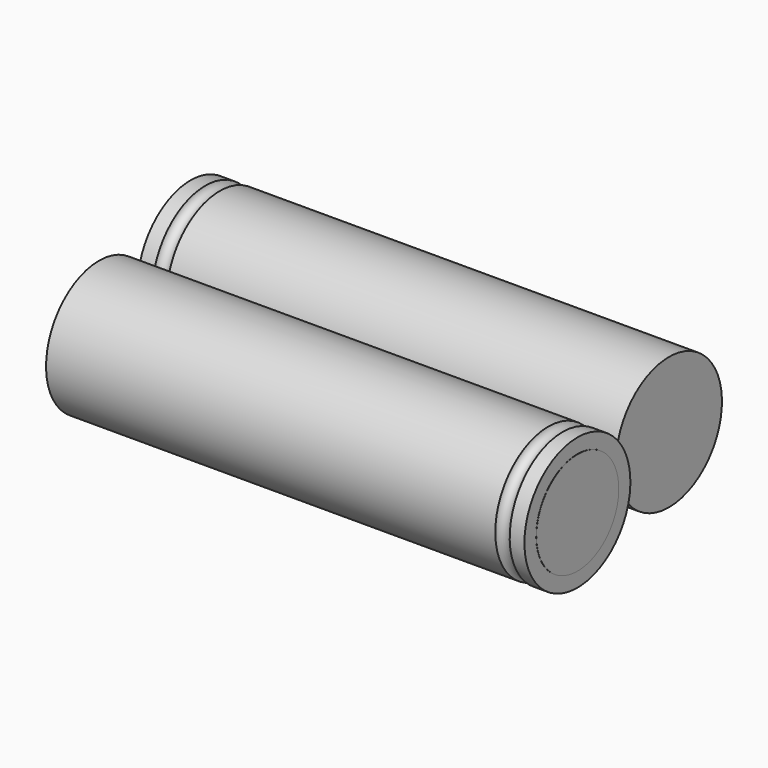
from build123d import *

# Parameters (mm, degrees)
CYLINDER003_R             = 4.5
CYLINDER003_DEPTH         = 2
CYLINDER004_R             = 7
CYLINDER004_DEPTH         = 2
TORUS001_R                = 1
CYLINDER005_R             = 9
CYLINDER005_DEPTH         = 65
FUSION001_PLACEMENT_ANGLE = 90
CYLINDER001_R             = 4.5
CYLINDER001_DEPTH         = 2
CYLINDER002_R             = 7
CYLINDER002_DEPTH         = 2
TORUS_R                   = 1
CYLINDER_R                = 9
CYLINDER_DEPTH            = 65
FUSION008_PLACEMENT_ANGLE = 90


with BuildPart() as cilindro003:
    # Cylinder003 → Cylinder003 (new body)
    with BuildSketch(Plane.XY):
        Circle(CYLINDER003_R)
    extrude(amount=CYLINDER003_DEPTH)


with BuildPart() as cilindro004:
    # Cylinder004 → Cylinder004 (new body)
    with BuildSketch(Plane.XY):
        Circle(CYLINDER004_R)
    extrude(amount=CYLINDER004_DEPTH)


with BuildPart() as toro001:
    # Torus001 → Torus001 (revolve)
    with BuildSketch(Plane(origin=(0, 0, 3), x_dir=(1, 0, 0), z_dir=(0, -1, 0))):
        with Locations((9.2, 0)):
            Circle(TORUS001_R)
    revolve(axis=Axis((0, 0, 3), (0, 0, 1)))


with BuildPart() as fusion001:
    # Cylinder005 → Cylinder005 (new body)
    with BuildSketch(Plane.XY.offset(0.02)):
        Circle(CYLINDER005_R)
    extrude(amount=CYLINDER005_DEPTH)

    # Cut001: cut Toro001
    add(toro001.part, mode=Mode.SUBTRACT)

    # Fusion001: union Cilindro003, Cilindro004
    add(cilindro003.part)
    add(cilindro004.part)


with BuildPart() as fusion001_1:
    # Fusion001 placement: moved
    add(fusion001.part.moved(Location((-29, 9.5, 9))).rotate(Axis((-29, 9.5, 9), (0, 1, 0)), FUSION001_PLACEMENT_ANGLE))


with BuildPart() as cilindro001:
    # Cylinder001 → Cylinder001 (new body)
    with BuildSketch(Plane.XY):
        Circle(CYLINDER001_R)
    extrude(amount=CYLINDER001_DEPTH)


with BuildPart() as cilindro002:
    # Cylinder002 → Cylinder002 (new body)
    with BuildSketch(Plane.XY):
        Circle(CYLINDER002_R)
    extrude(amount=CYLINDER002_DEPTH)


with BuildPart() as toro:
    # Torus → Torus (revolve)
    with BuildSketch(Plane(origin=(0, 0, 3), x_dir=(1, 0, 0), z_dir=(0, -1, 0))):
        with Locations((9.2, 0)):
            Circle(TORUS_R)
    revolve(axis=Axis((0, 0, 3), (0, 0, 1)))


with BuildPart() as obj1:
    # Cylinder → Cylinder (new body)
    with BuildSketch(Plane.XY.offset(0.02)):
        Circle(CYLINDER_R)
    extrude(amount=CYLINDER_DEPTH)

    # Cut007: cut Toro
    add(toro.part, mode=Mode.SUBTRACT)

    # Fusion008: union Cilindro001, Cilindro002
    add(cilindro001.part)
    add(cilindro002.part)


with BuildPart() as obj1_1:
    # Fusion008 placement: moved
    add(obj1.part.moved(Location((40, -11, 9))).rotate(Axis((40, -11, 9), (0, -1, 0)), FUSION008_PLACEMENT_ANGLE))

    # Fusion009: union Fusion001
    add(fusion001_1.part)


solid = obj1_1.part
